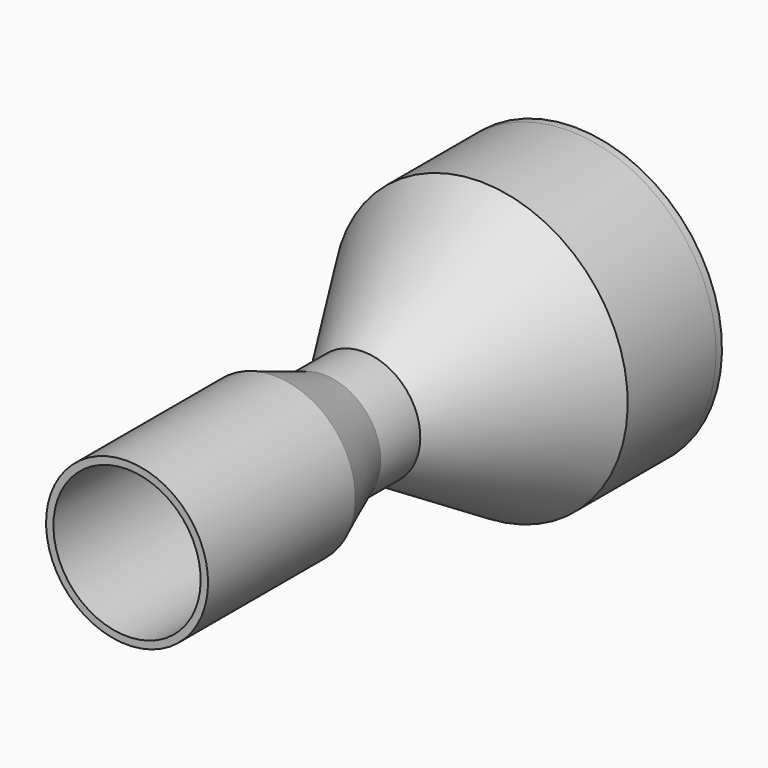
from build123d import *

# Parameters (mm, degrees)
F2_W = 2
F2_H = 30


with BuildPart() as f1:
    # F0 (on Right) → F1 (revolve)
    with BuildSketch(Plane.YZ):
        Polygon((50, 22), (0, 22), (0, 20), (49.624798, 20), (66.419822, 13.468601), (80.804184, 13.468601), (120.567301, 38), (150, 38), (150, 40), (120, 40), (80.236883, 15.468601), (66.795024, 15.468601), align=None)
    revolve(axis=Axis((0, 94.187401, 0), (0, 1, 0)))


with BuildPart() as f3:
    # F2 (on Right) → F3 (revolve)
    with BuildSketch(Plane.YZ):
        with Locations((151, 25)):
            Rectangle(F2_W, F2_H)
    revolve(axis=Axis((0, 91.58729, 0), (0, 1, 0)))


solid = Compound([f1.part, f3.part])
